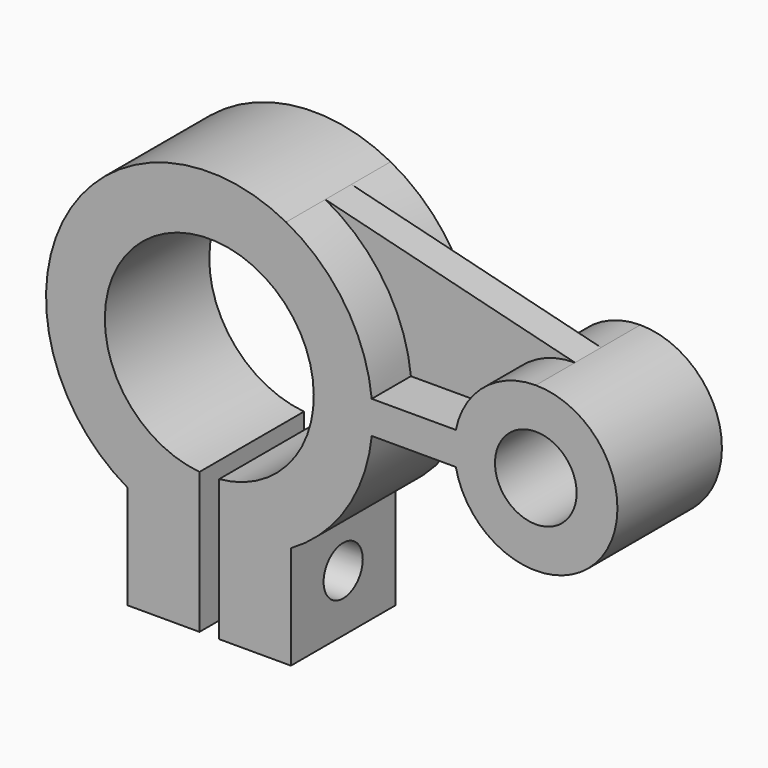
from build123d import *

# Parameters (mm, degrees)
F0_R     = 12.5
F1_DEPTH = 20
F2_DEPTH = 5
F3_R     = 7.5
F4_DEPTH = 50


with BuildPart() as f1:
    # F0 (on Front) → F1 (new body, symmetric)
    with BuildSketch(Plane.XZ):
        with BuildLine():
            Line((63.232286, 3.888947), (37.476556, 3.888947))
            ThreePointArc((37.476556, 3.888947), (29.260214, 26.727902), (11.256595, 43.006594))
            ThreePointArc((11.256595, 43.006594), (-55.988459, 23.157086), (-37.272816, -44.412323))
            Line((-37.272816, -44.412323), (-37.272816, -76.111053))
            Line((-37.272816, -76.111053), (-15.272816, -76.111053))
            Line((-15.272816, -76.111053), (-15.272816, -32.970117))
            ThreePointArc((-15.272816, -32.970117), (-12.272816, 30.888947), (-9.272816, -32.970117))
            Line((-9.272816, -32.970117), (-9.272816, -33.111053))
            Line((-9.272816, -33.111053), (-9.272816, -76.111053))
            Line((-9.272816, -76.111053), (12.727184, -76.111053))
            Line((12.727184, -76.111053), (12.727184, -44.412323))
            ThreePointArc((12.727184, -44.412323), (29.722588, -28.247486), (37.476556, -6.111053))
            Line((37.476556, -6.111053), (63.232286, -6.111053))
            ThreePointArc((63.232286, -6.111053), (107.0921, -16.922441), (87.727184, 23.888947))
            ThreePointArc((87.727184, 23.888947), (71.915795, 18.253864), (63.232286, 3.888947))
        make_face()
        with Locations((87.727184, -1.111053)):
            Circle(F0_R, mode=Mode.SUBTRACT)
    extrude(amount=F1_DEPTH, both=True)

    # F0 (on Front) → F2 (join, symmetric)
    with BuildSketch(Plane.XZ):
        with BuildLine():
            ThreePointArc((11.256595, 43.006594), (29.260214, 26.727902), (37.476556, 3.888947))
            Line((37.476556, 3.888947), (63.232286, 3.888947))
            ThreePointArc((63.232286, 3.888947), (71.915795, 18.253864), (87.727184, 23.888947))
            Line((87.727184, 23.888947), (11.256595, 43.006594))
        make_face()
    extrude(amount=F2_DEPTH, both=True)

    # F3 (on Right) → F4 (cut, symmetric)
    with BuildSketch(Plane.YZ):
        with Locations((0, -58.611053)):
            Circle(F3_R)
    extrude(amount=F4_DEPTH, both=True, mode=Mode.SUBTRACT)


solid = f1.part
